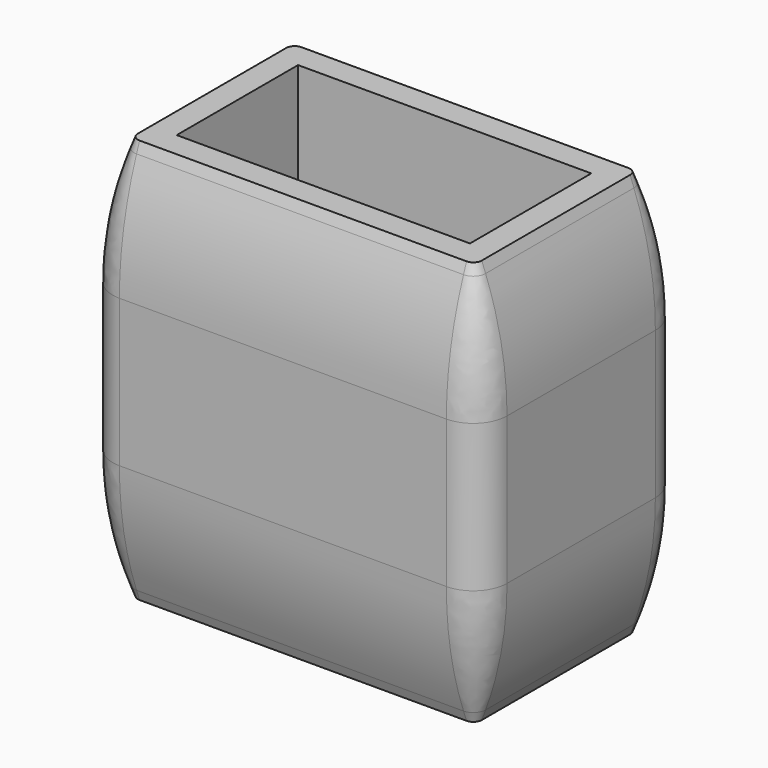
from build123d import *

# Parameters (mm, degrees)
F0_W       = 11.7
F0_H       = 7.5
F0_W_2     = 8.7
F0_H_2     = 4.5
F1_DEPTH   = 12
F2_R       = 1
F3_SIZE2   = 2
F3_SIZE    = 0.75
F3_2_SIZE2 = 2
F3_2_SIZE  = 0.75
F4_R       = 10


with BuildPart() as f1:
    # F0 (on Top) → F1 (new body)
    with BuildSketch(Plane.XY):
        Rectangle(F0_W, F0_H)
        Rectangle(F0_W_2, F0_H_2, mode=Mode.SUBTRACT)
    extrude(amount=F1_DEPTH)

    # F2
    f2_edges = [f1.edges().sort_by_distance(p)[0] for p in [
        (5.85, -3.75, 6),
        (-5.85, -3.75, 6),
        (-5.85, 3.75, 6),
        (5.85, 3.75, 6),
    ]]
    fillet(f2_edges, radius=F2_R)

    # F3
    f3_edges = [f1.edges().sort_by_distance(p)[0] for p in [
        (0, -3.75, 12),
    ]]
    f3_side = f1.faces().sort_by_distance((0, -3.611025, 12))[0]
    chamfer(f3_edges, length=F3_SIZE, length2=F3_SIZE2, reference=f3_side)

    # F3#2
    f3_2_edges = [f1.edges().sort_by_distance(p)[0] for p in [
        (0, -3.75, 0),
    ]]
    f3_2_side = f1.faces().sort_by_distance((0, -3.611025, 0))[0]
    chamfer(f3_2_edges, length=F3_2_SIZE, length2=F3_2_SIZE2, reference=f3_2_side)

    # F4
    f4_edges = [f1.edges().sort_by_distance(p)[0] for p in [
        (0, -3.75, 2),
        (0, -3.75, 10),
    ]]
    fillet(f4_edges, radius=F4_R)


solid = f1.part
